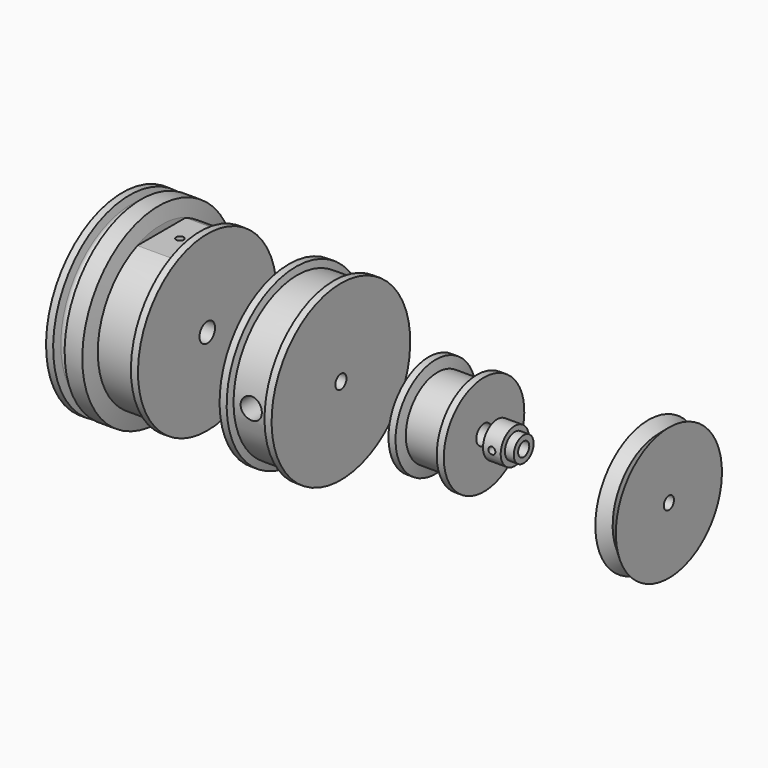
from build123d import *

# Parameters (mm, degrees)
F4_W           = 13.462
F4_H           = 2.159
F5_DEPTH       = 34.291
F5_DEPTH_BACK  = 34.291
F6_R           = 1.3462
F7_DEPTH       = 10
F14_R          = 1.27
F15_DEPTH      = 34.291
F15_DEPTH_BACK = 34.291


with BuildPart() as f1:
    # F0 (on Front) → F1 (revolve)
    with BuildSketch(Plane.XZ):
        Polygon((40.8633656478, 18.0625), (40.8633656478, 3.5), (50.8, 3.5), (60.7366343522, 3.5), (60.7366343522, 18.0625), (58.1966343522, 18.0625), (57.531, 14.2875), (44.069, 14.2875), (43.4033656478, 18.0625), align=None)
    revolve(axis=Axis((0.5526728928, 0, 0), (1, 0, 0)))


with BuildPart() as f3:
    # F2 (on Front) → F3 (revolve)
    with BuildSketch(Plane.XZ):
        with BuildLine():
            Line((-38.6410203302, -3.50012), (-69.1083201107, -3.50012))
            Line((-69.1083201107, -3.50012), (-69.1083201107, -34.29))
            Line((-69.1083201107, -34.29), (-66.5683201107, -34.29))
            Line((-66.5683201107, -34.29), (-66.0718421412, -31.474333518))
            ThreePointArc((-66.0718421412, -31.474333518), (-64.5084598333, -30.1625), (-62.9450775254, -31.474333518))
            Line((-62.9450775254, -31.474333518), (-62.4485995559, -34.29))
            Line((-62.4485995559, -34.29), (-56.0985995559, -34.29))
            Line((-56.0985995559, -34.29), (-55.0908908612, -28.575))
            Line((-55.0908908612, -28.575), (-41.6288908612, -28.575))
            Line((-41.6288908612, -28.575), (-41.1810203302, -31.115))
            Line((-41.1810203302, -31.115), (-38.6410203302, -31.115))
            Line((-38.6410203302, -31.115), (-38.6410203302, -3.50012))
        make_face()
    revolve(axis=Axis((-42.0171124861, 0, 0), (1, 0, 0)))

    # F4 (on Front) → F5 (cut, two sides)
    with BuildSketch(Plane.XZ) as f5_sk:
        with Locations((-48.3835863111, 27.525145282)):
            Rectangle(F4_W, F4_H)
    extrude(amount=-F5_DEPTH, mode=Mode.SUBTRACT)
    extrude(f5_sk.sketch, amount=F5_DEPTH_BACK, mode=Mode.SUBTRACT)

    # F6 (on face) → F7 (cut)
    with BuildSketch(Plane.XY.offset(26.445645282)):
        with Locations((-48.4575033188, 0)):
            Circle(F6_R)
    extrude(amount=-F7_DEPTH, mode=Mode.SUBTRACT)


with BuildPart() as f9:
    # F8 (on Front) → F9 (revolve)
    with BuildSketch(Plane.XZ):
        Polygon((-9.337870531, 2.5), (9.337870531, 2.5), (9.337870531, 31.115), (6.797870531, 31.115), (6.35, 28.575), (-6.35, 28.575), (-6.797870531, 31.115), (-9.337870531, 31.115), align=None)
    revolve(axis=Axis((5.2288658917, 0, 0), (1, 0, 0)))

    # F10 (on Right) → F11 (revolve, cut)
    with BuildSketch(Plane.YZ):
        Polygon((-38.1, 0), (0, 0), (38.1, 0), (38.1, 3.81), (12.7, 3.81), (12.7, 1.3462), (-12.7, 1.3462), (-12.7, 3.81), (-38.1, 3.81), align=None)
    revolve(axis=Axis((0, 2.3429269935, 0), (0, 1, 0)), mode=Mode.SUBTRACT)


with BuildPart() as f13:
    # F12 (on Front) → F13 (revolve)
    with BuildSketch(Plane.XZ):
        Polygon((65.4459159136, 2.5), (74.9709159136, 2.5), (74.9709159136, 4.445), (71.7959159136, 4.445), (71.7959159136, 6.35), (65.4459159136, 6.35), align=None)
    revolve(axis=Axis((68.2688262314, 0, 0), (1, 0, 0)))

    # F14 (on Front) → F15 (cut, two sides)
    with BuildSketch(Plane.XZ) as f15_sk:
        with Locations((68.6209159136, 0)):
            Circle(F14_R)
    extrude(amount=-F15_DEPTH, mode=Mode.SUBTRACT)
    extrude(f15_sk.sketch, amount=F15_DEPTH_BACK, mode=Mode.SUBTRACT)


with BuildPart() as f17:
    # F16 (on Front) → F17 (revolve)
    with BuildSketch(Plane.XZ):
        Polygon((127.1106957231, 2.286), (127.1106957231, 23.8125), (123.4276957231, 20.6375), (119.7446957231, 23.8125), (119.7446957231, 2.286), align=None)
    revolve(axis=Axis((104.0105185987, 0, 0), (1, 0, 0)))

    # F19 (on mid) → F20 (revolve, cut)
    with BuildSketch(Plane.YZ.offset(123.4276957231)):
        Polygon((1.27, -12.7), (1.27, 0), (0, 0), (0, -27.1378587931), (3.175, -27.1378587931), (3.175, -12.7), align=None)
    revolve(axis=Axis((123.4276957231, 0, 9.4858286902), (0, 0, 1)), mode=Mode.SUBTRACT)


solid = Compound([f1.part, f3.part, f9.part, f13.part, f17.part])
